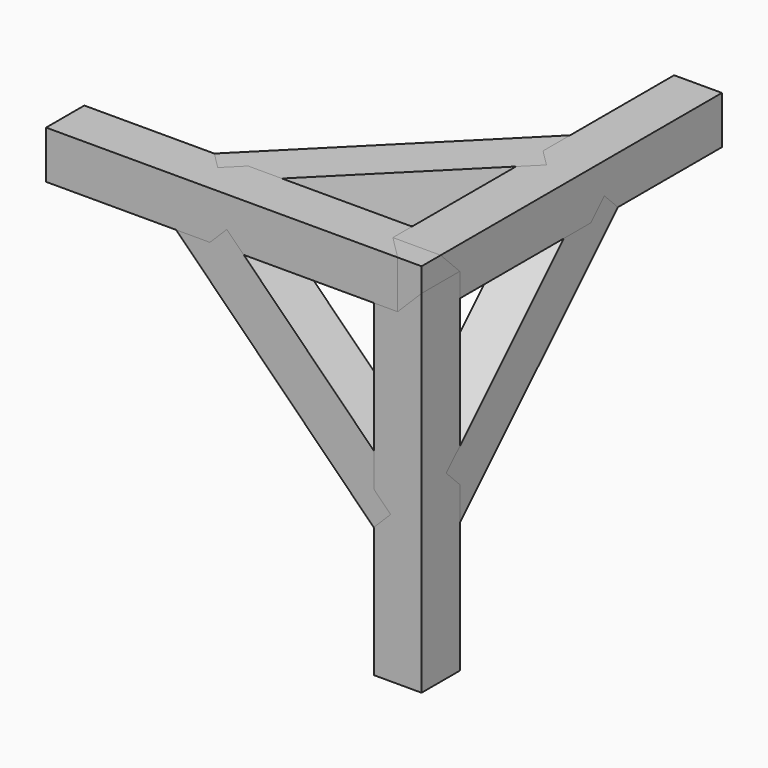
from build123d import *

# Parameters (mm, degrees)
F0_W      = 88.9
F0_H      = 88.9
F1_DEPTH  = 88.9
F5_DEPTH  = 88.9
F6_DEPTH  = 88.9
F7_DEPTH  = 88.9
F12_DEPTH = 88.9
F13_DEPTH = 88.9
F14_DEPTH = 88.9


with BuildPart() as f1:
    # F0 (on Top) → F1 (new body)
    with BuildSketch(Plane.XY):
        with Locations((44.45, -44.45)):
            Rectangle(F0_W, F0_H)
    extrude(amount=F1_DEPTH)


with BuildPart() as f5:
    # F2 (on face) → F5 (new body)
    with BuildSketch(Plane.XY.offset(88.9)):
        Polygon((44.45, -88.9), (0, -44.45), (0, -88.9), align=None)
        Polygon((0, -88.9), (0, -44.45), (0, 0), (-609.6, 0), (-609.6, -88.9), align=None)
    extrude(amount=-F5_DEPTH)


with BuildPart() as f6:
    # F3 (on face) → F6 (new body)
    with BuildSketch(Plane.XZ.offset(88.9)):
        Polygon((88.9, 44.45), (44.45, 0), (88.9, 0), align=None)
        Polygon((88.9, 0), (44.45, 0), (0, 0), (0, -609.6), (88.9, -609.6), align=None)
    extrude(amount=-F6_DEPTH)


with BuildPart() as f7:
    # F4 (on face) → F7 (new body)
    with BuildSketch(Plane.YZ.offset(88.9)):
        Polygon((-44.45, 88.9), (0, 44.45), (0, 88.9), align=None)
        Polygon((0, 88.9), (0, 44.45), (0, 0), (609.6, 0), (609.6, 88.9), align=None)
    extrude(amount=-F7_DEPTH)


with BuildPart() as f1_1:
    add(f1.part)

    # F8: cut F5, F7, F6
    add(f5.part, mode=Mode.SUBTRACT)
    add(f7.part, mode=Mode.SUBTRACT)
    add(f6.part, mode=Mode.SUBTRACT)


with BuildPart() as f12:
    # F9 (on face) → F12 (new body)
    with BuildSketch(Plane.XY.offset(88.9)):
        Polygon((-304.8, 0), (-241.9382071525, 0), (0, 241.9382071525), (31.4308964237, 273.3691035763), (0, 304.8), (0, 367.6617928475), (-367.6617928475, 0), (-336.2308964237, -31.4308964237), align=None)
    extrude(amount=-F12_DEPTH)


with BuildPart() as f13:
    # F10 (on face) → F13 (new body)
    with BuildSketch(Plane.XZ.offset(88.9)):
        Polygon((0, -304.8), (0, -241.9382071525), (-241.9382071525, 0), (-304.8, 0), (-367.6617928475, 0), (0, -367.6617928475), (31.4308964237, -336.2308964237), align=None)
        Polygon((-304.8, 0), (-241.9382071525, 0), (-273.3691035763, 31.4308964237), align=None)
    extrude(amount=-F13_DEPTH)


with BuildPart() as f14:
    # F11 (on face) → F14 (new body)
    with BuildSketch(Plane.YZ.offset(88.9)):
        Polygon((241.9382071525, 0), (0, -241.9382071525), (0, -304.8), (0, -367.6617928475), (367.6617928475, 0), (336.2308964237, 31.4308964237), (304.8, 0), align=None)
        Polygon((0, -304.8), (0, -241.9382071525), (-31.4308964237, -273.3691035763), align=None)
    extrude(amount=-F14_DEPTH)


with BuildPart() as f6_1:
    add(f6.part)

    # F15: cut F13, F12, F14
    add(f13.part, mode=Mode.SUBTRACT)
    add(f12.part, mode=Mode.SUBTRACT)
    add(f14.part, mode=Mode.SUBTRACT)


with BuildPart() as f5_1:
    add(f5.part)

    # F15: cut F13, F12, F14
    add(f13.part, mode=Mode.SUBTRACT)
    add(f12.part, mode=Mode.SUBTRACT)
    add(f14.part, mode=Mode.SUBTRACT)


with BuildPart() as f7_1:
    add(f7.part)

    # F15: cut F13, F12, F14
    add(f13.part, mode=Mode.SUBTRACT)
    add(f12.part, mode=Mode.SUBTRACT)
    add(f14.part, mode=Mode.SUBTRACT)


solid = Compound([f1_1.part, f12.part, f13.part, f14.part, f6_1.part, f5_1.part, f7_1.part])
